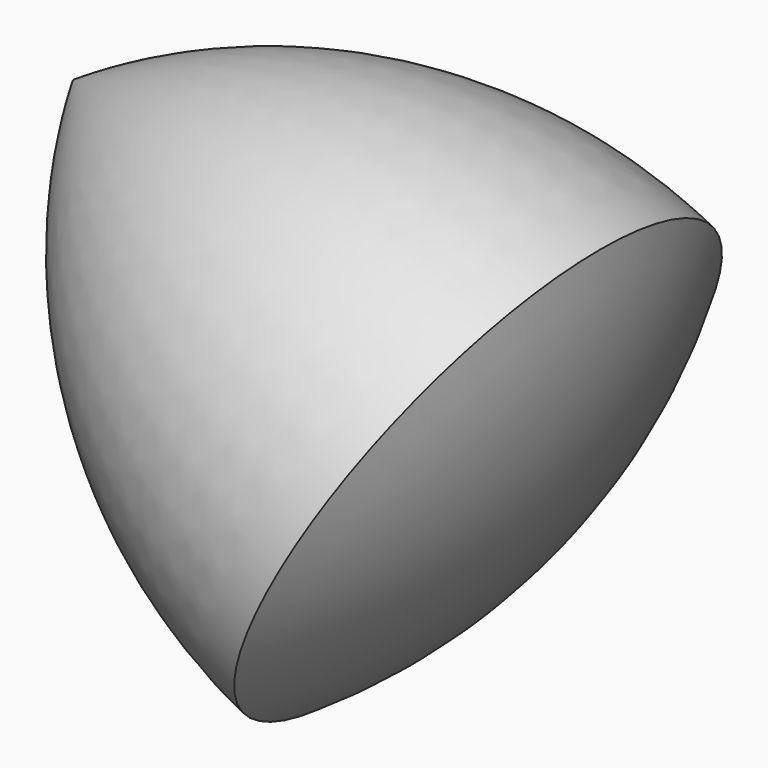
from build123d import *


with BuildPart() as f1:
    # F0 (on Front) → F1 (revolve)
    with BuildSketch(Plane.XZ):
        with BuildLine():
            Line((1.2368808461, -29.3363368458), (-26.0244533855, 13.5969981887))
            ThreePointArc((-26.0244533855, 13.5969981887), (-18.1457624951, -11.5219955746), (1.2368808461, -29.3363368458))
        make_face()
        Polygon((13.0122266928, -6.7984990944), (-26.0244533855, 13.5969981887), (1.2368808461, -29.3363368458), align=None)
        with BuildLine():
            Line((13.0122266928, -6.7984990944), (1.2368808461, -29.3363368458))
            ThreePointArc((1.2368808461, -29.3363368458), (11.4199381846, -20.8176664358), (19.0512221174, -9.9536935046))
            Line((19.0512221174, -9.9536935046), (13.0122266928, -6.7984990944))
        make_face()
    revolve(axis=Axis((-3.4866156341, 0, 1.8216523421), (0.8863190129, 0, -0.4630751638)))


solid = f1.part
